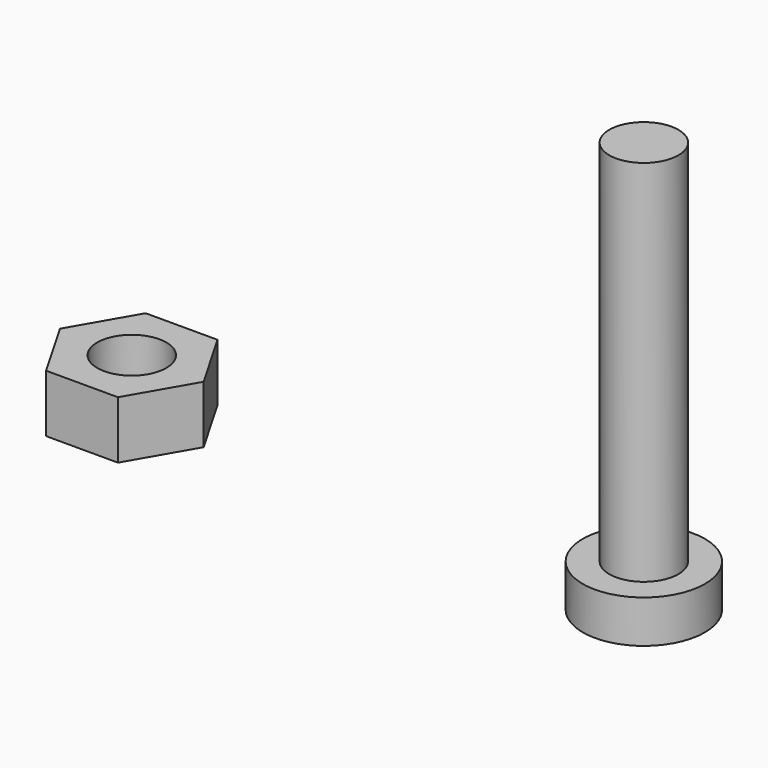
from build123d import *

# Parameters (mm, degrees)
F0_R     = 1.5
F1_DEPTH = 2.5
F2_R     = 2.65
F3_DEPTH = 1.85
F4_R     = 1.5
F5_DEPTH = 16


with BuildPart() as f1:
    # F0 (on Top) → F1 (new body)
    with BuildSketch(Plane.XY):
        Polygon((-3.911089, 2.7), (-7.02878, 2.7), (-8.587626, 0), (-7.02878, -2.7), (-3.911089, -2.7), (-2.352243, 0), align=None)
        with Locations((-5.469934, 0)):
            Circle(F0_R, mode=Mode.SUBTRACT)
    extrude(amount=F1_DEPTH)


with BuildPart() as f3:
    # F2 (on Top) → F3 (new body)
    with BuildSketch(Plane.XY):
        with Locations((16.747818, 0)):
            Circle(F2_R)
    extrude(amount=F3_DEPTH)

    # F4 (on face) → F5 (join)
    with BuildSketch(Plane.XY.offset(1.85)):
        with Locations((16.747818, 0)):
            Circle(F4_R)
    extrude(amount=F5_DEPTH)


solid = Compound([f1.part, f3.part])
